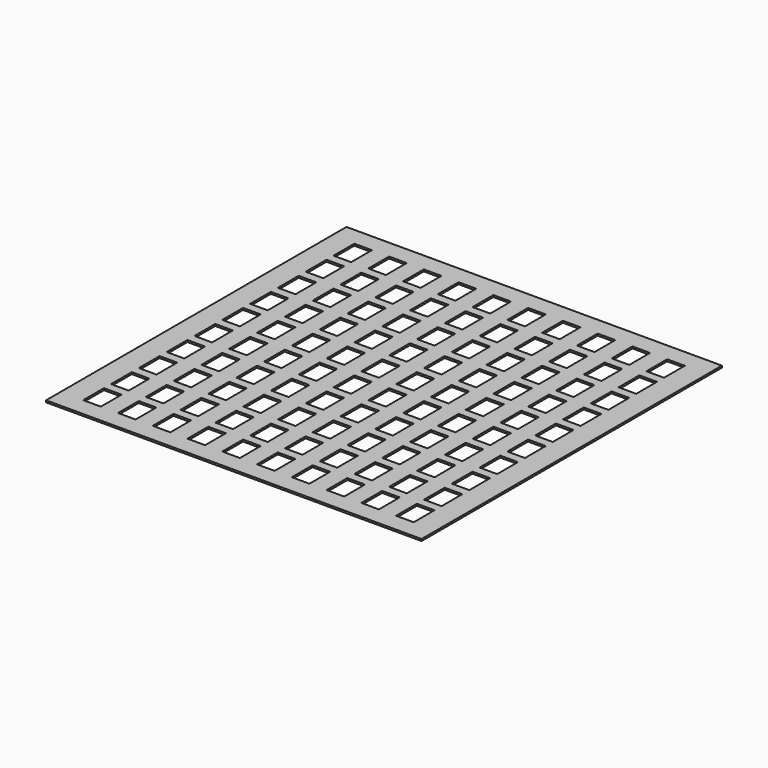
from build123d import *

# Parameters (mm, degrees)
F0_W     = 810
F0_H     = 810
F1_DEPTH = 4
F2_W     = 38
F2_H     = 56
F3_DEPTH = 4


with BuildPart() as f1:
    # F0 (on Top) → F1 (new body)
    with BuildSketch(Plane.XY):
        Rectangle(F0_W, F0_H)
    extrude(amount=F1_DEPTH)

    # F2 (on face) → F3 (cut)
    with BuildSketch(Plane.XY.offset(4)):
        with Locations((-337.5, 337.5)):
            Rectangle(F2_W, F2_H)
        with Locations((-337.5, 262.5)):
            Rectangle(F2_W, F2_H)
        with Locations((-337.5, 187.5)):
            Rectangle(F2_W, F2_H)
        with Locations((-337.5, 112.5)):
            Rectangle(F2_W, F2_H)
        with Locations((-337.5, 37.5)):
            Rectangle(F2_W, F2_H)
        with Locations((-337.5, -37.5)):
            Rectangle(F2_W, F2_H)
        with Locations((-337.5, -112.5)):
            Rectangle(F2_W, F2_H)
        with Locations((-337.5, -187.5)):
            Rectangle(F2_W, F2_H)
        with Locations((-337.5, -262.5)):
            Rectangle(F2_W, F2_H)
        with Locations((-337.5, -337.5)):
            Rectangle(F2_W, F2_H)
        with Locations((-262.5, 337.5)):
            Rectangle(F2_W, F2_H)
        with Locations((-262.5, 262.5)):
            Rectangle(F2_W, F2_H)
        with Locations((-262.5, 187.5)):
            Rectangle(F2_W, F2_H)
        with Locations((-262.5, 112.5)):
            Rectangle(F2_W, F2_H)
        with Locations((-262.5, 37.5)):
            Rectangle(F2_W, F2_H)
        with Locations((-262.5, -37.5)):
            Rectangle(F2_W, F2_H)
        with Locations((-262.5, -112.5)):
            Rectangle(F2_W, F2_H)
        with Locations((-262.5, -187.5)):
            Rectangle(F2_W, F2_H)
        with Locations((-262.5, -262.5)):
            Rectangle(F2_W, F2_H)
        with Locations((-262.5, -337.5)):
            Rectangle(F2_W, F2_H)
        with Locations((-187.5, 337.5)):
            Rectangle(F2_W, F2_H)
        with Locations((-187.5, 262.5)):
            Rectangle(F2_W, F2_H)
        with Locations((-187.5, 187.5)):
            Rectangle(F2_W, F2_H)
        with Locations((-187.5, 112.5)):
            Rectangle(F2_W, F2_H)
        with Locations((-187.5, 37.5)):
            Rectangle(F2_W, F2_H)
        with Locations((-187.5, -37.5)):
            Rectangle(F2_W, F2_H)
        with Locations((-187.5, -112.5)):
            Rectangle(F2_W, F2_H)
        with Locations((-187.5, -187.5)):
            Rectangle(F2_W, F2_H)
        with Locations((-187.5, -262.5)):
            Rectangle(F2_W, F2_H)
        with Locations((-187.5, -337.5)):
            Rectangle(F2_W, F2_H)
        with Locations((-112.5, 337.5)):
            Rectangle(F2_W, F2_H)
        with Locations((-112.5, 262.5)):
            Rectangle(F2_W, F2_H)
        with Locations((-112.5, 187.5)):
            Rectangle(F2_W, F2_H)
        with Locations((-112.5, 112.5)):
            Rectangle(F2_W, F2_H)
        with Locations((-112.5, 37.5)):
            Rectangle(F2_W, F2_H)
        with Locations((-112.5, -37.5)):
            Rectangle(F2_W, F2_H)
        with Locations((-112.5, -112.5)):
            Rectangle(F2_W, F2_H)
        with Locations((-112.5, -187.5)):
            Rectangle(F2_W, F2_H)
        with Locations((-112.5, -262.5)):
            Rectangle(F2_W, F2_H)
        with Locations((-112.5, -337.5)):
            Rectangle(F2_W, F2_H)
        with Locations((-37.5, 337.5)):
            Rectangle(F2_W, F2_H)
        with Locations((-37.5, 262.5)):
            Rectangle(F2_W, F2_H)
        with Locations((-37.5, 187.5)):
            Rectangle(F2_W, F2_H)
        with Locations((-37.5, 112.5)):
            Rectangle(F2_W, F2_H)
        with Locations((-37.5, 37.5)):
            Rectangle(F2_W, F2_H)
        with Locations((-37.5, -37.5)):
            Rectangle(F2_W, F2_H)
        with Locations((-37.5, -112.5)):
            Rectangle(F2_W, F2_H)
        with Locations((-37.5, -187.5)):
            Rectangle(F2_W, F2_H)
        with Locations((-37.5, -262.5)):
            Rectangle(F2_W, F2_H)
        with Locations((-37.5, -337.5)):
            Rectangle(F2_W, F2_H)
        with Locations((37.5, 337.5)):
            Rectangle(F2_W, F2_H)
        with Locations((37.5, 262.5)):
            Rectangle(F2_W, F2_H)
        with Locations((37.5, 187.5)):
            Rectangle(F2_W, F2_H)
        with Locations((37.5, 112.5)):
            Rectangle(F2_W, F2_H)
        with Locations((37.5, 37.5)):
            Rectangle(F2_W, F2_H)
        with Locations((37.5, -37.5)):
            Rectangle(F2_W, F2_H)
        with Locations((37.5, -112.5)):
            Rectangle(F2_W, F2_H)
        with Locations((37.5, -187.5)):
            Rectangle(F2_W, F2_H)
        with Locations((37.5, -262.5)):
            Rectangle(F2_W, F2_H)
        with Locations((37.5, -337.5)):
            Rectangle(F2_W, F2_H)
        with Locations((112.5, 337.5)):
            Rectangle(F2_W, F2_H)
        with Locations((112.5, 262.5)):
            Rectangle(F2_W, F2_H)
        with Locations((112.5, 187.5)):
            Rectangle(F2_W, F2_H)
        with Locations((112.5, 112.5)):
            Rectangle(F2_W, F2_H)
        with Locations((112.5, 37.5)):
            Rectangle(F2_W, F2_H)
        with Locations((112.5, -37.5)):
            Rectangle(F2_W, F2_H)
        with Locations((112.5, -112.5)):
            Rectangle(F2_W, F2_H)
        with Locations((112.5, -187.5)):
            Rectangle(F2_W, F2_H)
        with Locations((112.5, -262.5)):
            Rectangle(F2_W, F2_H)
        with Locations((112.5, -337.5)):
            Rectangle(F2_W, F2_H)
        with Locations((187.5, 337.5)):
            Rectangle(F2_W, F2_H)
        with Locations((187.5, 262.5)):
            Rectangle(F2_W, F2_H)
        with Locations((187.5, 187.5)):
            Rectangle(F2_W, F2_H)
        with Locations((187.5, 112.5)):
            Rectangle(F2_W, F2_H)
        with Locations((187.5, 37.5)):
            Rectangle(F2_W, F2_H)
        with Locations((187.5, -37.5)):
            Rectangle(F2_W, F2_H)
        with Locations((187.5, -112.5)):
            Rectangle(F2_W, F2_H)
        with Locations((187.5, -187.5)):
            Rectangle(F2_W, F2_H)
        with Locations((187.5, -262.5)):
            Rectangle(F2_W, F2_H)
        with Locations((187.5, -337.5)):
            Rectangle(F2_W, F2_H)
        with Locations((262.5, 337.5)):
            Rectangle(F2_W, F2_H)
        with Locations((262.5, 262.5)):
            Rectangle(F2_W, F2_H)
        with Locations((262.5, 187.5)):
            Rectangle(F2_W, F2_H)
        with Locations((262.5, 112.5)):
            Rectangle(F2_W, F2_H)
        with Locations((262.5, 37.5)):
            Rectangle(F2_W, F2_H)
        with Locations((262.5, -37.5)):
            Rectangle(F2_W, F2_H)
        with Locations((262.5, -112.5)):
            Rectangle(F2_W, F2_H)
        with Locations((262.5, -187.5)):
            Rectangle(F2_W, F2_H)
        with Locations((262.5, -262.5)):
            Rectangle(F2_W, F2_H)
        with Locations((262.5, -337.5)):
            Rectangle(F2_W, F2_H)
        with Locations((337.5, 337.5)):
            Rectangle(F2_W, F2_H)
        with Locations((337.5, 262.5)):
            Rectangle(F2_W, F2_H)
        with Locations((337.5, 187.5)):
            Rectangle(F2_W, F2_H)
        with Locations((337.5, 112.5)):
            Rectangle(F2_W, F2_H)
        with Locations((337.5, 37.5)):
            Rectangle(F2_W, F2_H)
        with Locations((337.5, -37.5)):
            Rectangle(F2_W, F2_H)
        with Locations((337.5, -112.5)):
            Rectangle(F2_W, F2_H)
        with Locations((337.5, -187.5)):
            Rectangle(F2_W, F2_H)
        with Locations((337.5, -262.5)):
            Rectangle(F2_W, F2_H)
        with Locations((337.5, -337.5)):
            Rectangle(F2_W, F2_H)
    extrude(amount=-F3_DEPTH, mode=Mode.SUBTRACT)


solid = f1.part
